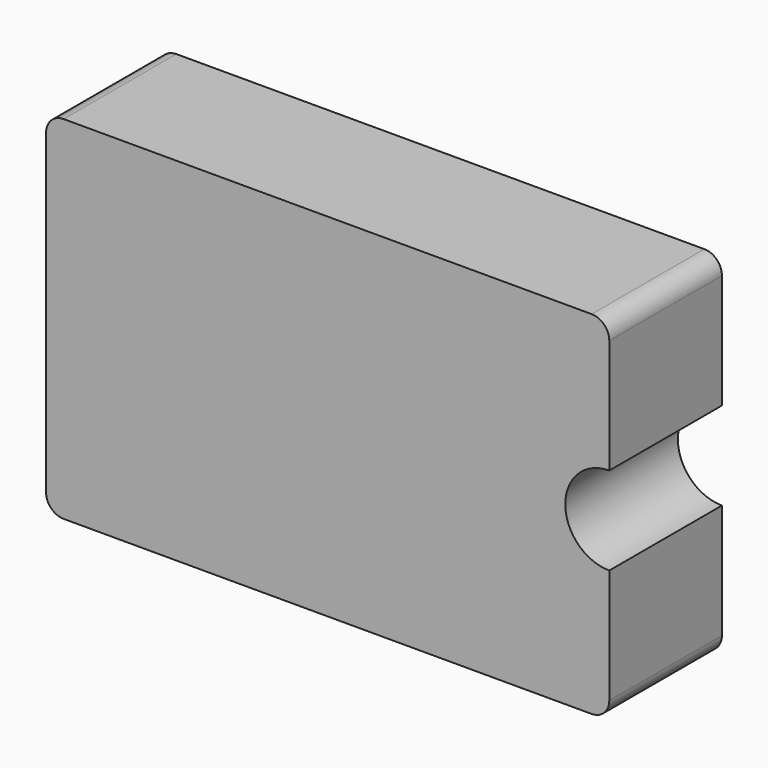
from build123d import *

# Parameters (mm, degrees)
F0_W     = 203.2
F0_H     = 127
F1_DEPTH = 50.8
F2_R     = 15.875
F3_DEPTH = 50.801
F4_R     = 6.35


with BuildPart() as f1:
    # F0 (on Front) → F1 (new body)
    with BuildSketch(Plane.XZ):
        with Locations((101.6, 63.5)):
            Rectangle(F0_W, F0_H)
    extrude(amount=F1_DEPTH)

    # F2 (on face) → F3 (cut, through all)
    with BuildSketch(Plane.XZ.offset(50.8)):
        with Locations((203.2, 63.5)):
            Circle(F2_R)
    extrude(amount=-F3_DEPTH, mode=Mode.SUBTRACT)

    # F4
    f4_edges = [f1.edges().sort_by_distance(p)[0] for p in [
        (203.2, -25.4, 127),
        (203.2, -25.4, 0),
        (0, -25.4, 127),
        (0, -25.4, 0),
    ]]
    fillet(f4_edges, radius=F4_R)


solid = f1.part
